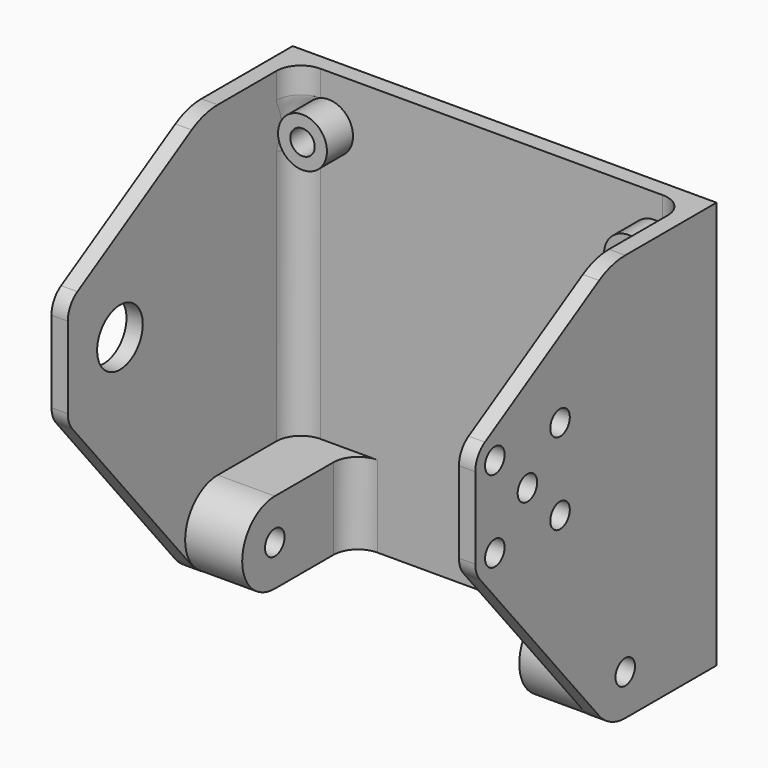
from build123d import *

# Parameters (mm, degrees)
SKETCH_W      = 48
SKETCH_H      = 50
SKETCH_R      = 1.5
PAD_DEPTH     = 2
SKETCH001_R   = 1.5
PAD001_DEPTH  = 2
SKETCH002_R   = 3.5
SKETCH002_R_2 = 1.5
PAD002_DEPTH  = 2
SKETCH003_R   = 3
SKETCH003_R_2 = 1.5
PAD003_DEPTH  = 4
SKETCH004_R   = 1.5
PAD004_DEPTH  = 7
SKETCH005_R   = 1.5
PAD005_DEPTH  = 7
SKETCH006_R   = 1.5
POCKET_DEPTH  = 5
FILLET_R      = 3
FILLET001_R   = 3
FILLET002_R   = 3
FILLET003_R   = 3


with BuildPart() as body:
    # Sketch → Pad (new body)
    with BuildSketch(Plane.XZ):
        with Locations((24, 25)):
            Rectangle(SKETCH_W, SKETCH_H)
        with Locations((4, 44)):
            Circle(SKETCH_R, mode=Mode.SUBTRACT)
        with Locations((44, 44)):
            Circle(SKETCH_R, mode=Mode.SUBTRACT)
        with Locations((4, 6)):
            Circle(SKETCH_R, mode=Mode.SUBTRACT)
        with Locations((44, 6)):
            Circle(SKETCH_R, mode=Mode.SUBTRACT)
    extrude(amount=PAD_DEPTH)

    # Sketch001 (on Face4 of Pad) → Pad001 (join)
    with BuildSketch(Plane(origin=(0, 0, 0), x_dir=(0, 0, -1), z_dir=(-1, 0, 0))):
        with BuildLine():
            Line((-50, 0), (0, 0))
            Line((0, 14), (0, 0))
            ThreePointArc((0, 14), (-0.494828, 16.210929), (-1.884896, 18))
            Line((-1.884896, 18), (-24.070988, 36.313604))
            ThreePointArc((-24.070988, 36.313604), (-24.966073, 36.823191), (-25.980762, 37))
            Line((-25.980762, 37), (-35.980762, 37))
            ThreePointArc((-35.980762, 37), (-37.468289, 36.605238), (-38.564336, 35.524843))
            Line((-38.564336, 35.524843), (-48.907622, 18))
            ThreePointArc((-48.907622, 18), (-49.721995, 16.07324), (-50, 14))
            Line((-50, 14), (-50, 0))
        make_face()
        with Locations((-5, 14)):
            Circle(SKETCH001_R, mode=Mode.SUBTRACT)
        with Locations((-30.980762, 29)):
            Circle(SKETCH001_R, mode=Mode.SUBTRACT)
        with Locations((-25.980762, 24)):
            Circle(SKETCH001_R, mode=Mode.SUBTRACT)
        with Locations((-25.980762, 34)):
            Circle(SKETCH001_R, mode=Mode.SUBTRACT)
        with Locations((-35.980762, 34)):
            Circle(SKETCH001_R, mode=Mode.SUBTRACT)
        with Locations((-35.980762, 24)):
            Circle(SKETCH001_R, mode=Mode.SUBTRACT)
    extrude(amount=PAD001_DEPTH)

    # Sketch002 (on Face3 of Pad001) → Pad002 (join)
    with BuildSketch(Plane(origin=(48, 0, 0), x_dir=(0, 0, 1), z_dir=(1, 0, 0))):
        with BuildLine():
            Line((24.070988, 36.313604), (1.884896, 18))
            ThreePointArc((1.884896, 18), (0.494828, 16.210929), (0, 14))
            Line((0, 14), (0, 0))
            Line((50, 0), (0, 0))
            Line((50, 14), (50, 0))
            ThreePointArc((50, 14), (49.721995, 16.07324), (48.907622, 18))
            Line((38.564336, 35.524843), (48.907622, 18))
            ThreePointArc((38.564336, 35.524843), (37.468289, 36.605238), (35.980762, 37))
            Line((25.980762, 37), (35.980762, 37))
            ThreePointArc((25.980762, 37), (24.966073, 36.823191), (24.070988, 36.313604))
        make_face()
        with Locations((30.980762, 29)):
            Circle(SKETCH002_R, mode=Mode.SUBTRACT)
        with Locations((5, 14)):
            Circle(SKETCH002_R_2, mode=Mode.SUBTRACT)
    extrude(amount=PAD002_DEPTH)

    # Sketch003 (on Face5 of Pad002) → Pad003 (join)
    with BuildSketch(Plane.XZ.offset(2)):
        with Locations((4, 44)):
            Circle(SKETCH003_R)
        with Locations((4, 44)):
            Circle(SKETCH003_R_2, mode=Mode.SUBTRACT)
        with Locations((44, 44)):
            Circle(SKETCH003_R)
        with Locations((44, 44)):
            Circle(SKETCH003_R_2, mode=Mode.SUBTRACT)
    extrude(amount=PAD003_DEPTH)

    # Sketch004 (on Face8 of Pad003) → Pad004 (join)
    with BuildSketch(Plane(origin=(0, 0, 0), x_dir=(0, 0, 1), z_dir=(1, 0, 0))):
        with BuildLine():
            Line((0, 2), (0, 14))
            ThreePointArc((10, 14), (5, 19), (0, 14))
            Line((10, 14), (10, 2))
            Line((10, 2), (0, 2))
        make_face()
        with Locations((5, 14)):
            Circle(SKETCH004_R, mode=Mode.SUBTRACT)
    extrude(amount=PAD004_DEPTH)

    # Sketch005 (on Face12 of Pad004) → Pad005 (join)
    with BuildSketch(Plane(origin=(48, 0, 0), x_dir=(0, 0, -1), z_dir=(-1, 0, 0))):
        with BuildLine():
            Line((-10, 14), (-10, 2))
            Line((-10, 2), (0, 2))
            Line((0, 2), (0, 14))
            ThreePointArc((0, 14), (-5, 19), (-10, 14))
        make_face()
        with Locations((-5, 14)):
            Circle(SKETCH005_R, mode=Mode.SUBTRACT)
    extrude(amount=PAD005_DEPTH)

    # Sketch006 (on Face6 of Pad005) → Pocket (cut)
    with BuildSketch(Plane.XZ.offset(2)):
        with Locations((4, 6)):
            Circle(SKETCH006_R)
        with Locations((44, 6)):
            Circle(SKETCH006_R)
    extrude(amount=POCKET_DEPTH, mode=Mode.SUBTRACT)

    # Fillet
    fillet_edges = [body.edges().sort_by_distance(p)[0] for p in [
        (48, -2, 30),
    ]]
    fillet(fillet_edges, radius=FILLET_R)

    # Fillet001
    fillet001_edges = [body.edges().sort_by_distance(p)[0] for p in [
        (0, -2, 30),
    ]]
    fillet(fillet001_edges, radius=FILLET001_R)

    # Fillet002
    fillet002_edges = [body.edges().sort_by_distance(p)[0] for p in [
        (7, -2, 5),
    ]]
    fillet(fillet002_edges, radius=FILLET002_R)

    # Fillet003
    fillet003_edges = [body.edges().sort_by_distance(p)[0] for p in [
        (41, -2, 5),
    ]]
    fillet(fillet003_edges, radius=FILLET003_R)


with BuildPart() as part_mirroring:
    # Part__Mirroring: instance of Body
    add(body.part.mirror(Plane(origin=(0, 0, 0), x_dir=(0, -1, 0), z_dir=(1, 0, 0))))


solid = part_mirroring.part
